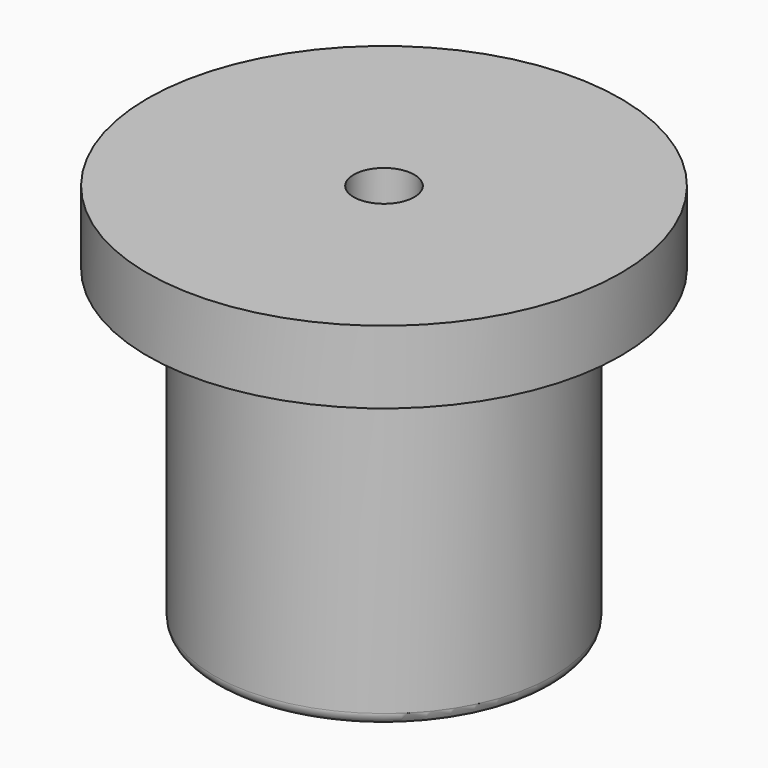
from build123d import *


with BuildPart() as f1:
    # F0 (on Front) → F1 (revolve)
    with BuildSketch(Plane.XZ):
        with BuildLine():
            Line((7.9375, 101.6), (7.9375, 0))
            Line((7.9375, 0), (41.275, 0))
            ThreePointArc((41.275, 0), (43.520064, 0.929936), (44.45, 3.175))
            Line((44.45, 3.175), (44.45, 73.976143))
            ThreePointArc((44.45, 73.976143), (45.024461, 75.797632), (46.539966, 76.959988))
            Line((46.539966, 76.959988), (61.9125, 82.55))
            Line((61.9125, 82.55), (61.9125, 98.425))
            Line((61.9125, 98.425), (61.9125, 101.6))
            Line((61.9125, 101.6), (58.7375, 101.6))
            Line((58.7375, 101.6), (7.9375, 101.6))
        make_face()
    revolve(axis=Axis((0, 0, 44.177184), (0, 0, 1)))


solid = f1.part
